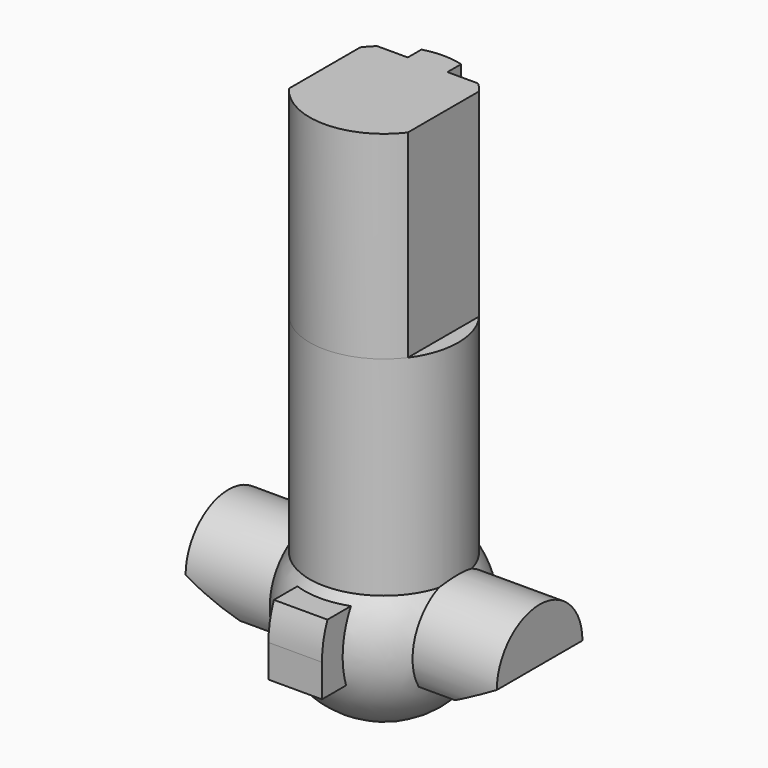
from build123d import *

# Parameters (mm, degrees)
SKETCH001_R          = 1.875
PAD_DEPTH            = 6.5
PAD002_DEPTH         = 5
SKETCH002_R          = 1.35
PAD001_DEPTH         = 3.925
POCKET_DEPTH         = 1.876
POCKET_DEPTH_BACK    = 1.876
SKETCH005_W          = 1.35
SKETCH005_H          = 1.7
PAD003_DEPTH         = 2.8
POCKET001_DEPTH      = 3.926
POCKET001_DEPTH_BACK = 3.926


with BuildPart() as part:
    # Sketch001 → Pad (new body)
    with BuildSketch(Plane.XY):
        Circle(SKETCH001_R)
    extrude(amount=PAD_DEPTH)

    # Sketch003 → Pad002 (join)
    with BuildSketch(Plane.XY.offset(6.5)):
        with BuildLine():
            ThreePointArc((1.5, 1.125), (1.392997, 1.255063), (1.274755, 1.375))
            Line((0.5, 1.375), (1.274755, 1.375))
            Line((0.5, 1.807104), (0.5, 1.375))
            ThreePointArc((0.5, 1.807104), (0, 1.875), (-0.5, 1.807104))
            Line((-0.5, 1.807104), (-0.5, 1.375))
            Line((-1.274755, 1.375), (-0.5, 1.375))
            ThreePointArc((-1.274755, 1.375), (-1.392997, 1.255063), (-1.5, 1.125))
            Line((-1.5, 1.125), (-1.5, -1.125))
            ThreePointArc((-1.5, -1.125), (0, -1.875), (1.5, -1.125))
            Line((1.5, 1.125), (1.5, -1.125))
        make_face()
    extrude(amount=PAD002_DEPTH)

    # Sketch002 → Pad001 (join, symmetric)
    with BuildSketch(Plane.YZ):
        Circle(SKETCH002_R)
    extrude(amount=PAD001_DEPTH, both=True)

    # Sketch004 → Pocket (cut, two sides)
    with BuildSketch(Plane.XZ) as pocket_sk:
        Polygon((-3.925, 0), (-3.925, -3), (3.925, -3), (3.925, 0), (2.712564, -0.7), (-2.712564, -0.7), align=None)
    extrude(amount=-POCKET_DEPTH, mode=Mode.SUBTRACT)
    extrude(pocket_sk.sketch, amount=POCKET_DEPTH_BACK, mode=Mode.SUBTRACT)

    # Sketch → Revolution (revolve)
    with BuildSketch(Plane.XY):
        with BuildLine():
            ThreePointArc((0, -2.25), (2.25, 0), (0, 2.25))
            Line((0, 2.25), (0, -2.25))
        make_face()
    revolve(axis=Axis((0, 0, 0), (0, 1, 0)))

    # Sketch005 → Pad003 (join)
    with BuildSketch(Plane.XZ):
        with Locations((0, 0.175)):
            Rectangle(SKETCH005_W, SKETCH005_H)
    extrude(amount=PAD003_DEPTH)

    # Sketch006 → Pocket001 (cut, two sides)
    with BuildSketch(Plane.YZ) as pocket001_sk:
        with BuildLine():
            Line((-2.8, 0.15), (-3.062142, 0.15))
            Line((-3.062142, 0.15), (-3.062142, 1.35))
            Line((-3.062142, 1.35), (-2.462142, 1.35))
            ThreePointArc((-2.462142, 1.35), (-2.713925, 0.773327), (-2.8, 0.15))
        make_face()
    extrude(amount=-POCKET001_DEPTH, mode=Mode.SUBTRACT)
    extrude(pocket001_sk.sketch, amount=POCKET001_DEPTH_BACK, mode=Mode.SUBTRACT)


solid = part.part
